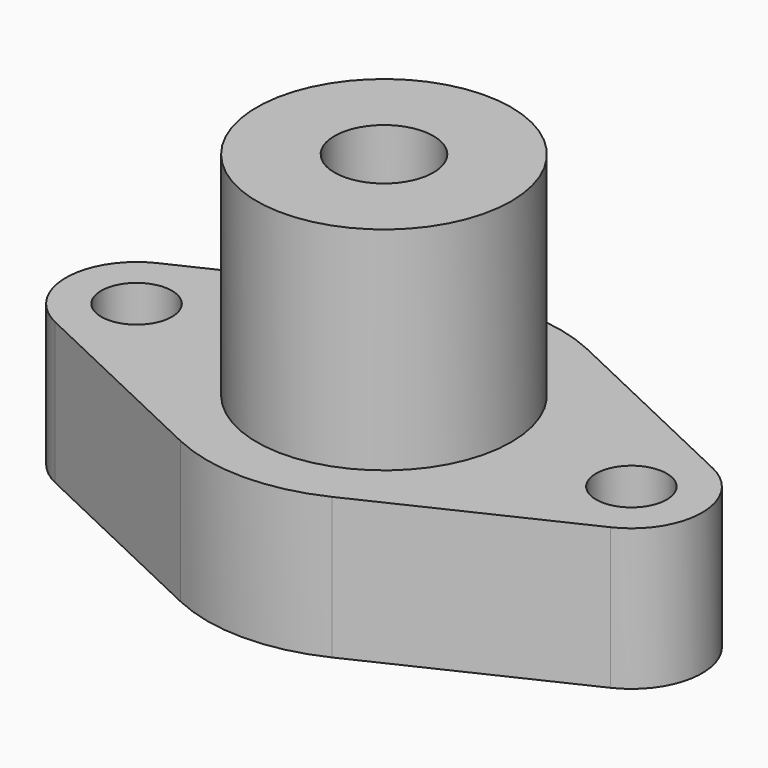
from build123d import *

# Parameters (mm, degrees)
F1_DEPTH = 20
F2_D     = 10
F3_R     = 18
F4_DEPTH = 30
F6_D     = 14
F6_DEPTH = 31
F6_TIP   = 4.2060243332


with BuildPart() as f1:
    # F0 (on Top) → F1 (new body)
    with BuildSketch(Plane.XY):
        with BuildLine():
            Line((39.2857142857, 9.0350790291), (10.7142857143, 22.5876975726))
            ThreePointArc((10.7142857143, 22.5876975726), (0, 25), (-10.7142857143, 22.5876975726))
            Line((-10.7142857143, 22.5876975726), (-39.2857142857, 9.0350790291))
            ThreePointArc((-39.2857142857, 9.0350790291), (-45, 0), (-39.2857142857, -9.0350790291))
            Line((-39.2857142857, -9.0350790291), (-10.7142857143, -22.5876975726))
            ThreePointArc((-10.7142857143, -22.5876975726), (0, -25), (10.7142857143, -22.5876975726))
            Line((10.7142857143, -22.5876975726), (39.2857142857, -9.0350790291))
            ThreePointArc((39.2857142857, -9.0350790291), (45, 0), (39.2857142857, 9.0350790291))
        make_face()
    extrude(amount=F1_DEPTH)

    # F2 (through all)
    with Locations(Plane(origin=(0, 0, 0), x_dir=(1, 0, 0), z_dir=(0, 0, -1))):
        with Locations((-35, 0), (35, 0)):
            Hole(F2_D / 2)

    # F3 (on face) → F4 (join)
    with BuildSketch(Plane.XY.offset(20)):
        Circle(F3_R)
    extrude(amount=F4_DEPTH)

    # F6
    with Locations(Plane.XY.offset(50)):
        with Locations((0, 0)):
            Hole(F6_D / 2, depth=F6_DEPTH)
            with Locations((0, 0, -(F6_DEPTH + F6_TIP / 2))):  # 118° drill point
                Cone(0, F6_D / 2, F6_TIP, mode=Mode.SUBTRACT)


solid = f1.part
